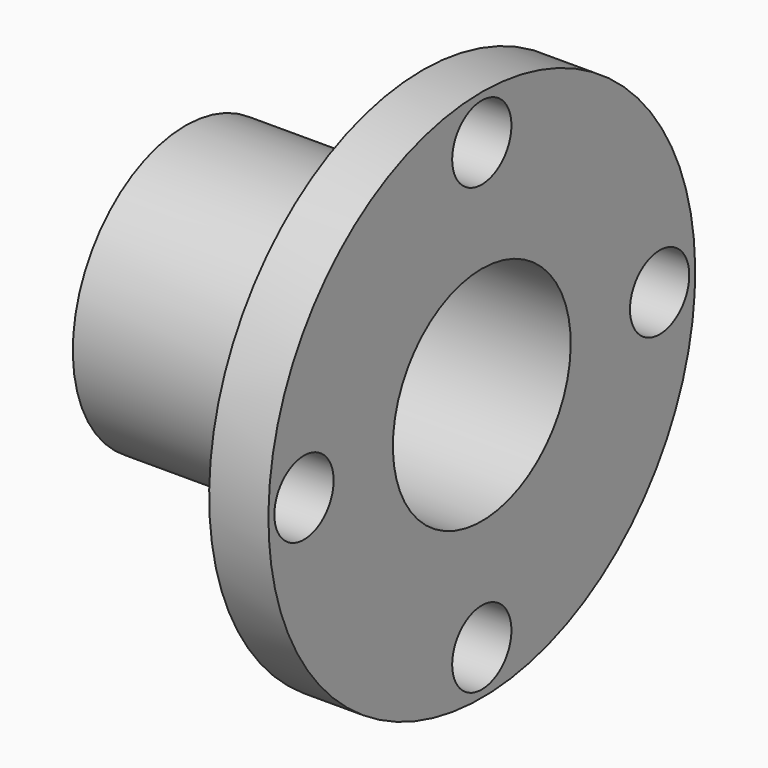
from build123d import *

# Parameters (mm, degrees)
F2_R     = 12.5
F3_DEPTH = 25


with BuildPart() as f1:
    # F0 (on Front) → F1 (revolve)
    with BuildSketch(Plane.XZ):
        Polygon((-100, 37.5), (0, 37.5), (0, 90), (-20, 90), (-20, 47.5), (-100, 47.5), align=None)
    revolve(axis=Axis((-87.685876, 0, 0), (-1, 0, 0)))

    # F2 (on face) → F3 (cut)
    with BuildSketch(Plane(origin=(-20, 0, 0), x_dir=(0, -1, 0), z_dir=(-1, 0, 0))):
        with Locations((0, 75)):
            Circle(F2_R)
        with Locations((-75, 0)):
            Circle(F2_R)
        with Locations((0, -75)):
            Circle(F2_R)
        with Locations((75, 0)):
            Circle(F2_R)
    extrude(amount=-F3_DEPTH, mode=Mode.SUBTRACT)


solid = f1.part
